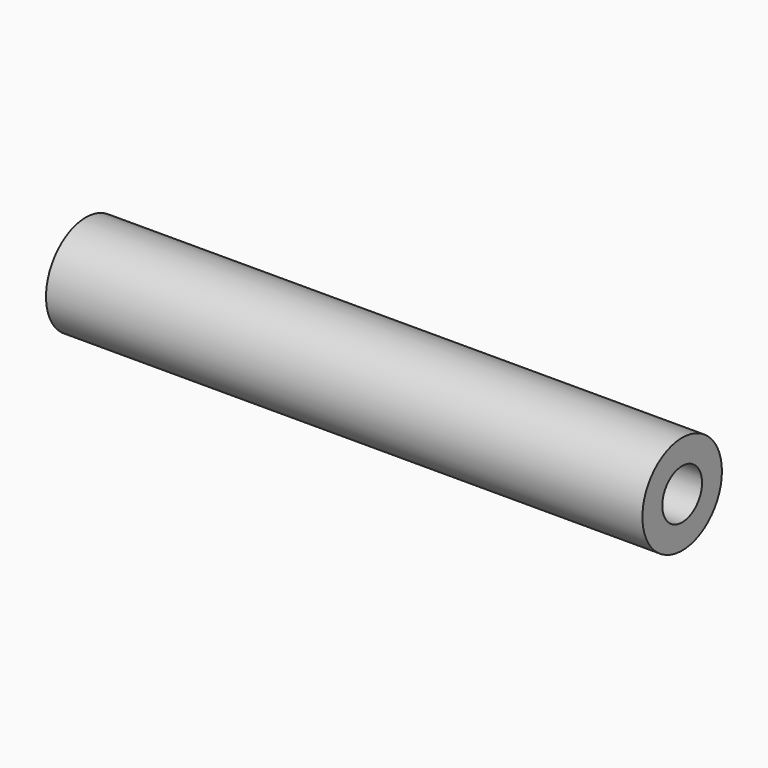
from build123d import *

# Parameters (mm, degrees)
F0_R     = 12.7
F0_R_2   = 6.35
F1_DEPTH = 152.4


with BuildPart() as f1:
    # F0 (on Right) → F1 (new body)
    with BuildSketch(Plane.YZ):
        Circle(F0_R)
        Circle(F0_R_2, mode=Mode.SUBTRACT)
        Circle(F0_R)
        Circle(F0_R_2, mode=Mode.SUBTRACT)
    extrude(amount=F1_DEPTH)


solid = f1.part
